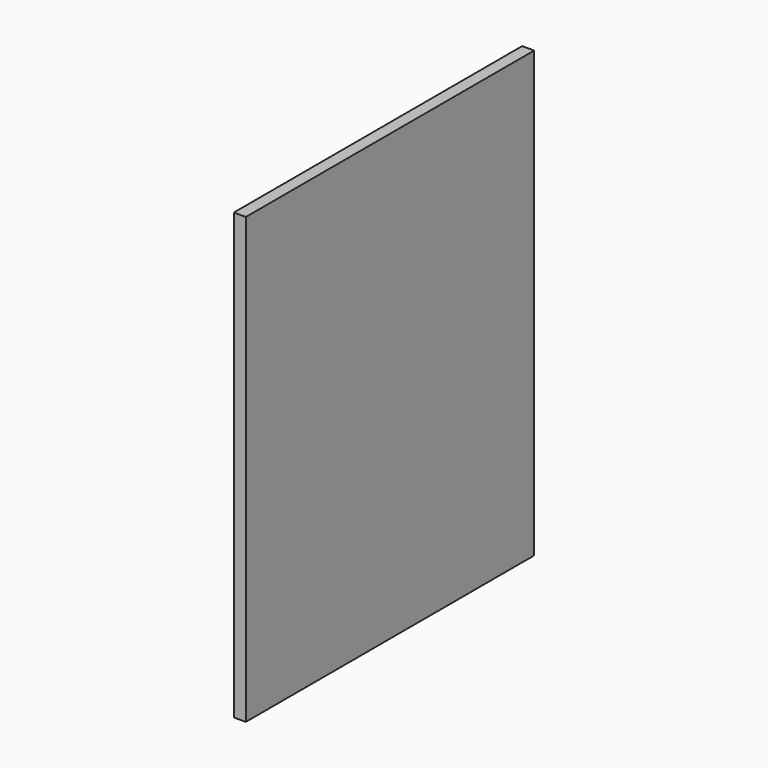
from build123d import *

# Parameters (mm, degrees)
F0_W      = 571.5
F0_H      = 1035.05
F1_DEPTH  = 19.05
F1_FACE_W = 19.05
F1_FACE_H = 571.5
F2_DEPTH  = 330.2


with BuildPart() as f1:
    # F0 (on Right) → F1 (new body)
    with BuildSketch(Plane.YZ):
        Rectangle(F0_W, F0_H)
    extrude(amount=F1_DEPTH)

    # F1_face (on face) → F2 (cut)
    with BuildSketch(Plane(origin=(9.525, 0, 517.525), x_dir=(1, 0, 0), z_dir=(0, 0, 1))):
        Rectangle(F1_FACE_W, F1_FACE_H)
    extrude(amount=-F2_DEPTH, mode=Mode.SUBTRACT)


solid = f1.part
